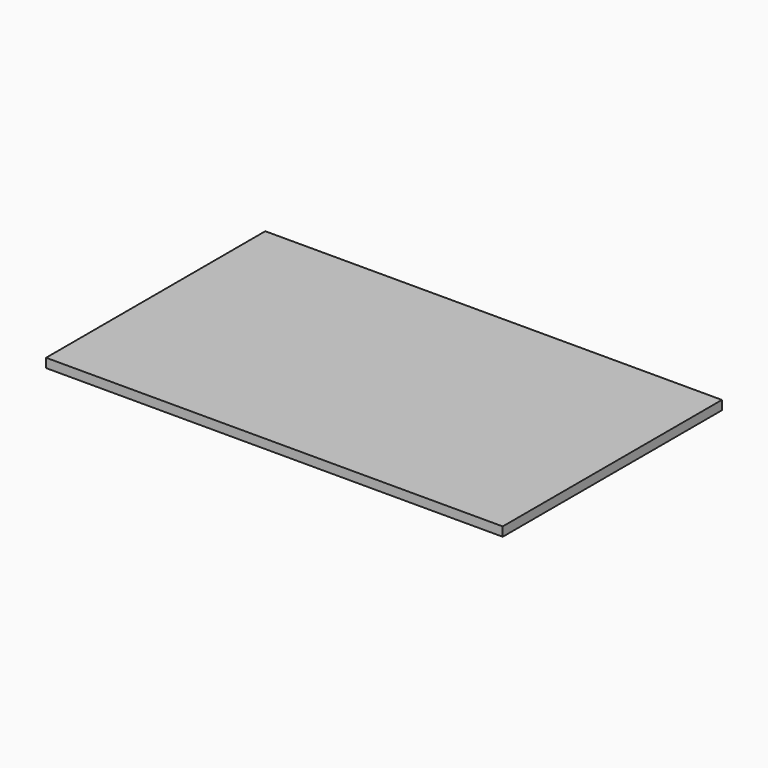
from build123d import *

# Parameters (mm, degrees)
SKETCH_W  = 500
SKETCH_H  = 300
PAD_DEPTH = 10


with BuildPart() as part:
    # Sketch → Pad (new body)
    with BuildSketch(Plane.XY):
        Rectangle(SKETCH_W, SKETCH_H)
    extrude(amount=PAD_DEPTH)


solid = part.part
